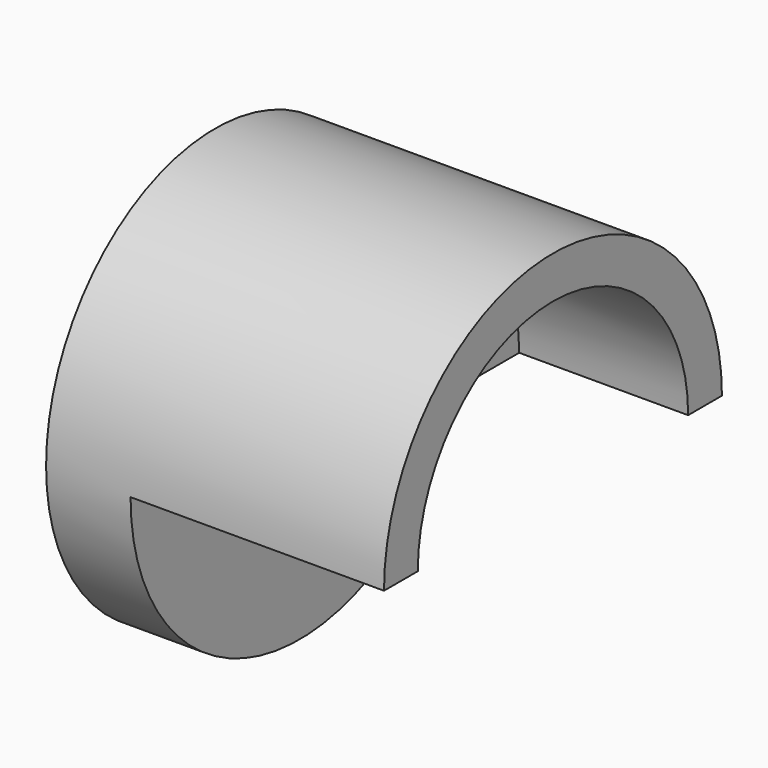
from build123d import *

# Parameters (mm, degrees)
F0_R     = 15.875
F1_DEPTH = 25.4
F2_W     = 43.094914
F2_H     = 19.034712
F3_DEPTH = 19.05
F4_R     = 1.8288
F5_DEPTH = 6.351
F6_R     = 12.7
F7_DEPTH = 12.7
F8_R     = 3.175
F9_DEPTH = 23.0124


with BuildPart() as f1:
    # F0 (on Right) → F1 (new body)
    with BuildSketch(Plane.YZ):
        Circle(F0_R)
    extrude(amount=F1_DEPTH)

    # F2 (on face) → F3 (cut)
    with BuildSketch(Plane.YZ.offset(25.4)):
        with Locations((0.400271, -9.517356)):
            Rectangle(F2_W, F2_H)
    extrude(amount=-F3_DEPTH, mode=Mode.SUBTRACT)

    # F4 (on face) → F5 (cut, through all)
    with BuildSketch(Plane.YZ.offset(6.35)):
        Circle(F4_R)
    extrude(amount=-F5_DEPTH, mode=Mode.SUBTRACT)

    # F6 (on face) → F7 (cut)
    with BuildSketch(Plane.YZ.offset(25.4)):
        Circle(F6_R)
    extrude(amount=-F7_DEPTH, mode=Mode.SUBTRACT)

    # F8 (on face) → F9 (cut)
    with BuildSketch(Plane.YZ.offset(25.4)):
        Circle(F8_R)
    extrude(amount=-F9_DEPTH, mode=Mode.SUBTRACT)


solid = f1.part
